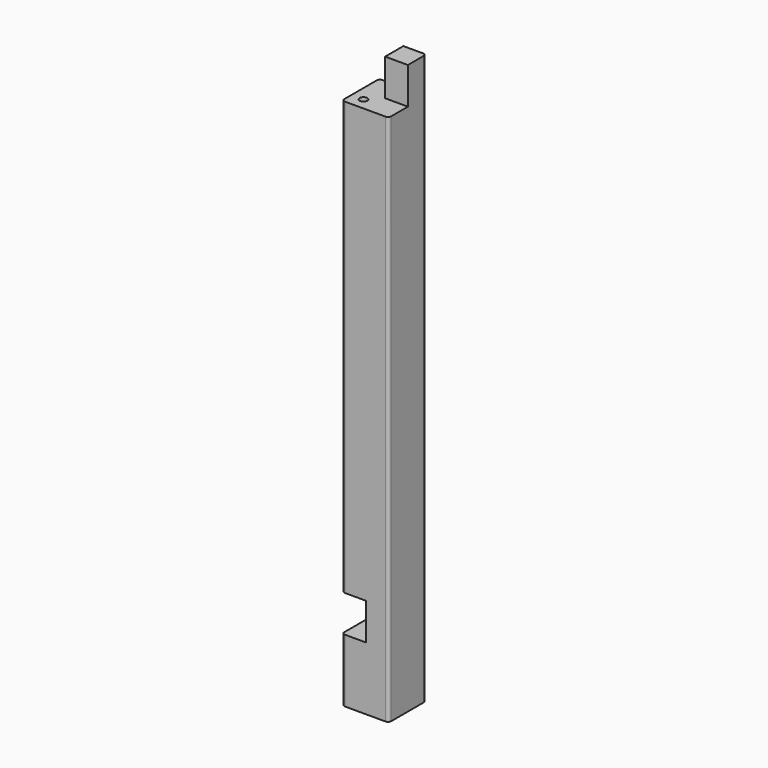
from build123d import *

# Parameters (mm, degrees)
F0_W     = 74
F0_H     = 74
F1_DEPTH = 900
F2_W     = 74
F2_H     = 58
F4_DEPTH = 38
F3_W     = 74
F3_H     = 58
F5_DEPTH = 38
F7_D     = 12
F7_DEPTH = 40
F7_TIP   = 3.6051637142
F8_W     = 74
F8_H     = 58
F9_DEPTH = 38
F10_R    = 5


with BuildPart() as f1:
    # F0 (on Top) → F1 (new body)
    with BuildSketch(Plane.XY):
        Rectangle(F0_W, F0_H)
    extrude(amount=-F1_DEPTH)

    # F2 (on face) → F4 (cut)
    with BuildSketch(Plane.XZ.offset(37)):
        with Locations((0, -29)):
            Rectangle(F2_W, F2_H)
    extrude(amount=-F4_DEPTH, mode=Mode.SUBTRACT)

    # F3 (on face) → F5 (cut)
    with BuildSketch(Plane(origin=(-37, 0, 0), x_dir=(0, -1, 0), z_dir=(-1, 0, 0))):
        with Locations((0, -29)):
            Rectangle(F3_W, F3_H)
    extrude(amount=-F5_DEPTH, mode=Mode.SUBTRACT)

    # F7
    with Locations(Plane.XY.offset(-58)):
        with Locations((-18, -18)):
            Hole(F7_D / 2, depth=F7_DEPTH)
            with Locations((0, 0, -(F7_DEPTH + F7_TIP / 2))):  # 118° drill point
                Cone(0, F7_D / 2, F7_TIP, mode=Mode.SUBTRACT)

    # F8 (on face) → F9 (cut)
    with BuildSketch(Plane(origin=(-37, 0, 0), x_dir=(0, -1, 0), z_dir=(-1, 0, 0))):
        with Locations((0, -771)):
            Rectangle(F8_W, F8_H)
    extrude(amount=-F9_DEPTH, mode=Mode.SUBTRACT)

    # F10
    f10_edges = [f1.edges().sort_by_distance(p)[0] for p in [
        (-37, -37, -850),
        (-37, -37, -400),
        (-37, 37, -400),
        (-37, 37, -850),
        (37, -37, -479),
        (37, 37, -450),
    ]]
    fillet(f10_edges, radius=F10_R)


solid = f1.part
